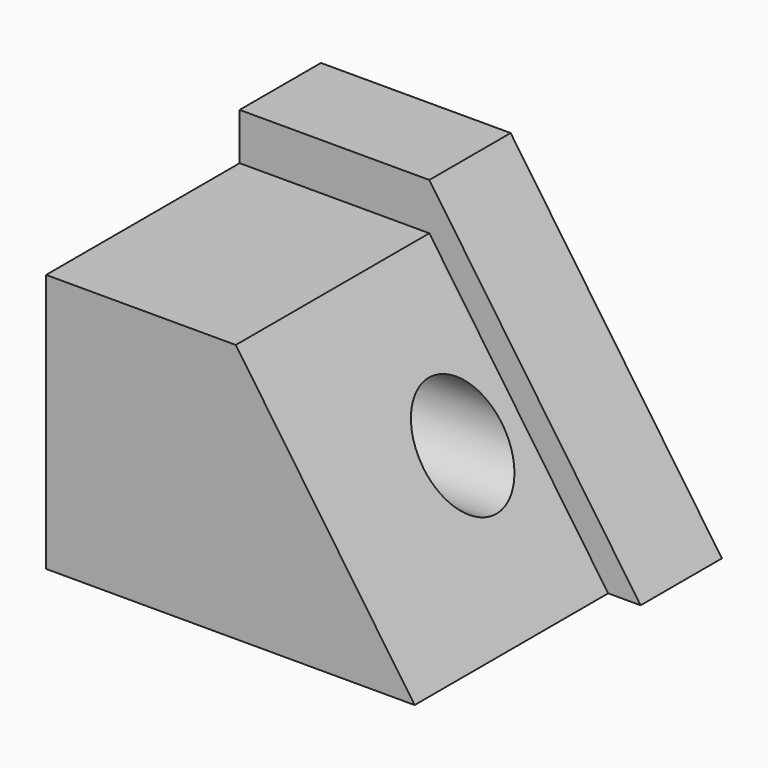
from build123d import *

# Parameters (mm, degrees)
F1_DEPTH = 85.852
F3_DEPTH = 25.4
F4_R     = 12.233243
F5_DEPTH = 100.197954


with BuildPart() as f1:
    # F0 (on Front) → F1 (new body)
    with BuildSketch(Plane.XZ):
        Polygon((-92.0972, 0), (0, 0), (-44.692129, 64.682215), (-92.0972, 64.682215), align=None)
    extrude(amount=F1_DEPTH)

    # F2 (on face) → F3 (join)
    with BuildSketch(Plane(origin=(0, 0, 0), x_dir=(-1, 0, 0), z_dir=(0, 1, 0))):
        Polygon((44.692129, 64.682215), (92.0972, 64.682215), (92.0972, 76.404862), (44.692129, 76.404862), (-8.099754, 0), (0, 0), align=None)
    extrude(amount=-F3_DEPTH)

    # F4 (on face) → F5 (cut, through all)
    with BuildSketch(Plane(origin=(-92.0972, 0, 0), x_dir=(0, -1, 0), z_dir=(-1, 0, 0))):
        with Locations((42.926, 32.341108)):
            Circle(F4_R)
    extrude(amount=-F5_DEPTH, mode=Mode.SUBTRACT)


solid = f1.part
